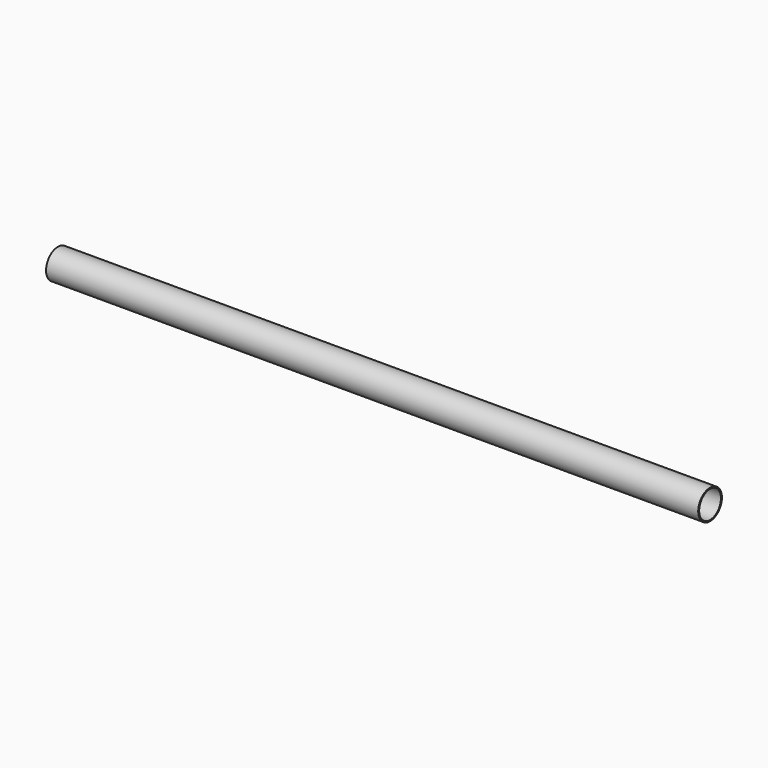
from build123d import *

# Parameters (mm, degrees)
F0_R     = 6.35
F1_DEPTH = 279.4
F2_R     = 5.842
F3_DEPTH = 279.4


with BuildPart() as f1:
    # F0 (on Right) → F1 (new body)
    with BuildSketch(Plane.YZ):
        Circle(F0_R)
    extrude(amount=F1_DEPTH)

    # F2 (on Right) → F3 (cut, through all)
    with BuildSketch(Plane.YZ):
        Circle(F2_R)
    extrude(amount=F3_DEPTH, mode=Mode.SUBTRACT)


solid = f1.part
